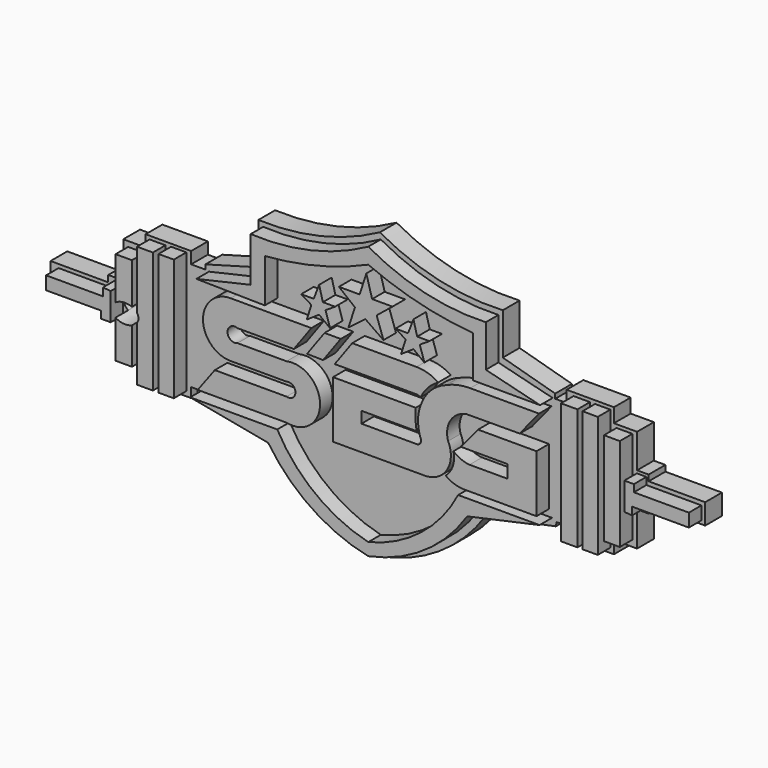
from build123d import *

# Parameters (mm, degrees)
F2_DEPTH = 4
F0_W     = 2.917025
F0_H     = 23.336196
F0_W_2   = 3.025058
F0_H_2   = 23.228157
F0_W_3   = 3.133103
F0_H_3   = 17.934299
F0_W_4   = 3.1331
F0_W_5   = 2.917021
F0_W_6   = 3.025062
F0_H_4   = 17.826262
F3_DEPTH = 7
F4_DEPTH = 7.001


with BuildPart() as f2:
    # F1 (on Front) → F2 (new body)
    with BuildSketch(Plane.XZ):
        with BuildLine():
            Line((-59.010106, 19.402372), (-59.010106, 15.476667))
            Line((-59.010106, 15.476667), (-47.978758, 15.476667))
            Line((-47.978758, 15.476667), (-47.978758, 13.535213))
            Line((-47.978758, 13.535213), (-45.105844, 13.535213))
            Line((-45.105844, 13.535213), (-45.105844, 7.55553))
            Line((-45.105844, 7.55553), (-40.838248, 7.55553))
            Line((-40.838248, 7.55553), (-40.838248, 5.070467))
            Line((-40.838248, 5.070467), (-32.13955, 5.070467))
            Line((-32.13955, 5.070467), (-32.13955, 6.934264))
            Line((-32.13955, 6.934264), (-30.894838, 6.934264))
            Line((-30.894838, 6.934264), (-30.894838, 6.157682))
            Line((-30.894838, 6.157682), (-15.438591, 3.439646))
            ThreePointArc((-15.438591, 3.439646), (-7.093662, -4.952285), (3.686931, -9.835028))
            ThreePointArc((3.686931, -9.835028), (15.237804, -5.286663), (24.067403, 3.439646))
            Line((24.067403, 3.439646), (37.572917, 6.157682))
            Line((37.572917, 6.157682), (37.709482, 6.934264))
            Line((37.709482, 6.934264), (39.640193, 6.934264))
            Line((39.640193, 6.934264), (39.640193, 5.070467))
            Line((39.640193, 5.070467), (48.666832, 5.070467))
            Line((48.666832, 5.070467), (48.666832, 7.466734))
            Line((48.666832, 7.466734), (53.08931, 7.466734))
            Line((53.08931, 7.466734), (53.08931, 14.068854))
            Line((53.08931, 14.068854), (55.296071, 14.068854))
            Line((55.296071, 14.068854), (55.296071, 15.567532))
            Line((55.296071, 15.567532), (66.105202, 15.567532))
            Line((66.105202, 15.567532), (66.105202, 19.507016))
            Line((66.105202, 19.507016), (55.296071, 19.507016))
            Line((55.296071, 19.507016), (55.296071, 20.643265))
            Line((55.296071, 20.643265), (53.08931, 20.643265))
            Line((53.08931, 20.643265), (53.08931, 27.12328))
            Line((53.08931, 27.12328), (48.666832, 27.12328))
            Line((48.666832, 27.12328), (48.666832, 29.817613))
            Line((48.666832, 29.817613), (39.622009, 29.817613))
            Line((39.622009, 29.817613), (39.622009, 27.58422))
            Line((39.622009, 27.58422), (37.442562, 27.58422))
            Line((37.442562, 27.58422), (37.442562, 28.464854))
            Line((37.442562, 28.464854), (27.430805, 31.257833))
            Line((27.430805, 31.257833), (27.430805, 39.227596))
            ThreePointArc((27.430805, 39.227596), (15.289618, 40.301637), (3.919085, 44.691733))
            ThreePointArc((3.919085, 44.691733), (-7.319875, 40.399028), (-19.293567, 39.227596))
            Line((-19.293567, 39.227596), (-19.293567, 31.257833))
            Line((-19.293567, 31.257833), (-29.408993, 28.464854))
            Line((-29.408993, 28.464854), (-29.408993, 27.58422))
            Line((-29.408993, 27.58422), (-32.13955, 27.58422))
            Line((-32.13955, 27.58422), (-32.13955, 29.817613))
            Line((-32.13955, 29.817613), (-40.838248, 29.817613))
            Line((-40.838248, 29.817613), (-40.838248, 27.58422))
            Line((-40.838248, 27.58422), (-45.105844, 27.58422))
            Line((-45.105844, 27.58422), (-45.105844, 20.643265))
            Line((-45.105844, 20.643265), (-47.978758, 20.643265))
            Line((-47.978758, 20.643265), (-47.978758, 19.402372))
            Line((-47.978758, 19.402372), (-59.010106, 19.402372))
        make_face()
        with BuildLine():
            add(Edge.make_bspline(
                [(-39.800607, 17.195709), (-39.800607, 20.326805), (-43.639127, 18.761257), (-47.477648, 17.195709), (-43.639127, 15.630161), (-39.800607, 14.064613), (-39.800607, 17.195709)],
                knots=[0, 0, 0, 2.094395, 2.094395, 4.18879, 4.18879, 6.283185, 6.283185, 6.283185], degree=2, weights=[1, 0.5, 1, 0.5, 1, 0.5, 1]))
        make_face(mode=Mode.SUBTRACT)
    extrude(amount=F2_DEPTH)

    # F0 (on Front) → F3 (join)
    with BuildSketch(Plane.XZ):
        with BuildLine():
            Line((-18.360175, 29.837262), (-28.731817, 27.460426))
            Line((-28.731817, 27.460426), (-15.659228, 27.24435))
            Line((-15.659228, 27.24435), (-15.659228, 35.563271))
            ThreePointArc((-15.659228, 35.563271), (-5.560472, 37.199644), (4.111716, 40.533017))
            ThreePointArc((4.111716, 40.533017), (13.897301, 37.211928), (24.098735, 35.563271))
            Line((24.098735, 35.563271), (24.098735, 27.568465))
            Line((24.098735, 27.568465), (36.955252, 27.568465))
            Line((36.955252, 27.568465), (26.583608, 30.161375))
            Line((26.583608, 30.161375), (26.583608, 38.156182))
            ThreePointArc((26.583608, 38.156182), (14.970461, 39.287974), (4.111716, 43.55808))
            ThreePointArc((4.111716, 43.55808), (-6.762464, 39.397518), (-18.360175, 38.37226))
            Line((-18.360175, 38.37226), (-18.360175, 29.837262))
        make_face()
        with BuildLine():
            Line((-13.282392, 7.149293), (-29.920235, 7.149293))
            Line((-29.920235, 7.149293), (-15.011, 4.340306))
            ThreePointArc((-15.011, 4.340306), (-6.711737, -3.965185), (4.111716, -8.516208))
            ThreePointArc((4.111716, -8.516208), (14.859618, -3.991748), (23.018356, 4.340306))
            Line((23.018356, 4.340306), (36.847211, 7.365369))
            Line((36.847211, 7.365369), (21.289749, 7.365369))
            ThreePointArc((21.289749, 7.365369), (14.169619, -1.255427), (4.111716, -6.139375))
            ThreePointArc((4.111716, -6.139375), (-5.975783, -1.315054), (-13.282392, 7.149293))
        make_face()
        with Locations((-34.511848, 17.628974)):
            Rectangle(F0_W, F0_H)
        with Locations((-38.563272, 17.574955)):
            Rectangle(F0_W_2, F0_H_2)
        with Locations((-42.614694, 17.628974)):
            Rectangle(F0_W_3, F0_H_3)
        with Locations((42.519206, 17.574955)):
            Rectangle(F0_W_4, F0_H_2)
        with Locations((46.516609, 17.574955)):
            Rectangle(F0_W_5, F0_H_2)
        with Locations((50.67607, 17.574955)):
            Rectangle(F0_W_6, F0_H_4)
        Polygon((-45.113314, 14.824063), (-45.113314, 20.089325), (-46.601322, 20.203786), (-46.601322, 18.715777), (-57.460032, 18.715777), (-57.460032, 16.197609), (-46.944711, 16.197609), (-46.944711, 14.824063), align=None)
        Polygon((53.042778, 20.115187), (53.042778, 14.849925), (54.530785, 14.735464), (54.530785, 16.223473), (65.389496, 16.223473), (65.389496, 18.741641), (54.874175, 18.741641), (54.874175, 20.115187), align=None)
        Polygon((-6.307463, 31.403811), (-8.711336, 31.403811), (-6.762973, 30.222766), (-7.628314, 27.481353), (-5.277231, 29.067773), (-3.193445, 27.481353), (-4.058785, 30.222766), (-2.219936, 31.403811), (-4.563566, 31.403811), (-5.277231, 34.093976), align=None)
        Polygon((0.340029, 28.745491), (3.549, 31.200001), (7.019212, 28.782552), (5.719735, 32.533981), (8.75185, 34.985866), (4.853417, 34.985866), (3.746455, 38.942028), (2.467324, 34.985866), (-1.498819, 34.985866), (1.565928, 32.533981), align=None)
        Polygon((11.720847, 31.469355), (9.316974, 31.469355), (11.265337, 30.288311), (10.399996, 27.546898), (12.75108, 29.133318), (14.834866, 27.546898), (13.969526, 30.288311), (15.808374, 31.469355), (13.464744, 31.469355), (12.75108, 34.159521), align=None)
        with BuildLine():
            Line((-10.104408, 21.720048), (-6.762973, 26.328867))
            Line((-6.762973, 26.328867), (-22.195523, 26.328867))
            ThreePointArc((-22.195523, 26.328867), (-27.472356, 21.052034), (-22.195523, 15.7752))
            Line((-22.195523, 15.7752), (-11.494022, 15.7752))
            ThreePointArc((-11.494022, 15.7752), (-9.803198, 14.515352), (-11.494022, 13.255504))
            Line((-11.494022, 13.255504), (-25.216663, 13.255504))
            Line((-25.216663, 13.255504), (-28.477632, 8.868717))
            Line((-28.477632, 8.868717), (-11.494022, 8.868717))
            ThreePointArc((-11.494022, 8.868717), (-5.093214, 14.035207), (-11.494022, 19.201698))
            Line((-11.494022, 19.201698), (-20.867361, 19.201698))
            ThreePointArc((-20.867361, 19.201698), (-22.784725, 20.460873), (-20.867361, 21.720048))
            Line((-20.867361, 21.720048), (-10.104408, 21.720048))
        make_face()
        Polygon((-1.143724, 26.328867), (-4.24384, 26.328867), (-7.585275, 21.720048), (-4.52187, 21.669413), align=None)
        with BuildLine():
            Line((13.34219, 26.328867), (1.043928, 26.328867))
            Line((1.043928, 26.328867), (-2.297507, 21.720048))
            Line((-2.297507, 21.720048), (13.266011, 21.720048))
            ThreePointArc((13.266011, 21.720048), (13.694347, 21.646), (14.072965, 21.432452))
            ThreePointArc((14.072965, 21.432452), (15.499101, 23.520872), (17.490635, 25.079448))
            ThreePointArc((17.490635, 25.079448), (15.508445, 26.009733), (13.34219, 26.328867))
        make_face()
        with BuildLine():
            ThreePointArc((13.34219, 15.524202), (13.154137, 17.462209), (13.191477, 19.40896))
            Line((13.191477, 19.40896), (-2.617514, 19.420345))
            Line((-2.617514, 19.420345), (-2.617514, 8.547293))
            Line((-2.617514, 8.547293), (14.928817, 8.547293))
            ThreePointArc((14.928817, 8.547293), (18.632648, 10.199588), (19.877462, 14.059496))
            ThreePointArc((19.877462, 14.059496), (19.710661, 14.956158), (19.37234, 15.803132))
            ThreePointArc((19.37234, 15.803132), (19.828735, 19.448747), (22.880699, 21.494308))
            Line((22.880699, 21.494308), (33.052407, 21.532437))
            Line((33.052407, 21.532437), (36.740046, 26.085043))
            Line((36.740046, 26.085043), (23.597317, 26.085043))
            ThreePointArc((23.597317, 26.085043), (21.245002, 25.857594), (19.004105, 25.106926))
            ThreePointArc((19.004105, 25.106926), (16.307164, 23.497174), (14.465537, 20.952925))
            ThreePointArc((14.465537, 20.952925), (13.626173, 17.635021), (14.236932, 14.267531))
            ThreePointArc((14.236932, 14.267531), (13.983505, 13.619365), (13.34219, 13.349068))
            Line((13.34219, 13.349068), (2.812496, 13.356651))
            Line((2.812496, 13.356651), (2.812496, 15.531785))
            Line((2.812496, 15.531785), (13.34219, 15.524202))
        make_face()
        with BuildLine():
            ThreePointArc((20.401722, 14.443579), (20.297513, 11.942299), (18.916195, 9.854423))
            ThreePointArc((18.916195, 9.854423), (20.481661, 9.019415), (22.221338, 8.670922))
            Line((22.221338, 8.670922), (36.26788, 8.670922))
            Line((36.26788, 8.670922), (36.26788, 19.601882))
            Line((36.26788, 19.601882), (25.08281, 19.601882))
            Line((25.08281, 19.601882), (21.787236, 15.642961))
            Line((21.787236, 15.642961), (30.703217, 15.642961))
            Line((30.703217, 15.642961), (30.703217, 13.16824))
            Line((30.703217, 13.16824), (23.462653, 13.16824))
            ThreePointArc((23.462653, 13.16824), (21.829472, 13.559382), (20.401722, 14.443579))
        make_face()
    extrude(amount=F3_DEPTH)

    # F1 (on Front) → F4 (cut, through all)
    with BuildSketch(Plane.XZ):
        with BuildLine():
            add(Edge.make_bspline(
                [(-39.800607, 17.195709), (-39.800607, 20.326805), (-43.639127, 18.761257), (-47.477648, 17.195709), (-43.639127, 15.630161), (-39.800607, 14.064613), (-39.800607, 17.195709)],
                knots=[0, 0, 0, 2.094395, 2.094395, 4.18879, 4.18879, 6.283185, 6.283185, 6.283185], degree=2, weights=[1, 0.5, 1, 0.5, 1, 0.5, 1]))
        make_face()
    extrude(amount=F4_DEPTH, mode=Mode.SUBTRACT)


solid = f2.part
